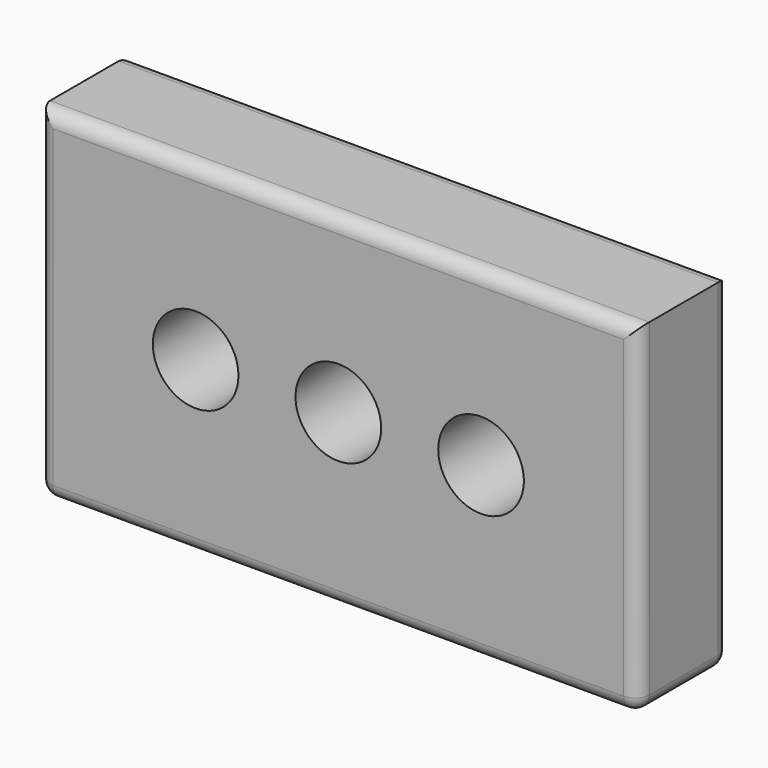
from build123d import *

# Parameters (mm, degrees)
F0_W     = 266.7
F0_H     = 152.4
F1_DEPTH = 50.8
F2_R     = 19.05
F3_DEPTH = 50.801
F4_R     = 19.05
F5_DEPTH = 50.801
F6_R     = 6.35


with BuildPart() as f1:
    # F0 (on Front) → F1 (new body)
    with BuildSketch(Plane.XZ):
        Rectangle(F0_W, F0_H)
    extrude(amount=F1_DEPTH)

    # F2 (on Front) → F3 (cut, through all)
    with BuildSketch(Plane.XZ):
        Circle(F2_R)
    extrude(amount=F3_DEPTH, mode=Mode.SUBTRACT)

    # F4 (on Front) → F5 (cut, through all)
    with BuildSketch(Plane.XZ):
        with Locations((-63.5, 0)):
            Circle(F4_R)
        with BuildLine():
            ThreePointArc((82.55, 0), (63.5, 19.05), (44.45, 0))
            ThreePointArc((44.45, 0), (63.5, -19.05), (82.55, 0))
        make_face()
    extrude(amount=F5_DEPTH, mode=Mode.SUBTRACT)

    # F6
    f6_edges = [f1.edges().sort_by_distance(p)[0] for p in [
        (-133.35, -50.8, 0),
        (0, -50.8, -76.2),
        (0, -50.8, 76.2),
        (133.35, -50.8, 0),
        (-133.35, -25.4, -76.2),
        (0, 0, -76.2),
        (-133.35, 0, 0),
        (133.35, -25.4, -76.2),
        (133.35, 0, 0),
        (0, 0, 76.2),
    ]]
    fillet(f6_edges, radius=F6_R)


solid = f1.part
